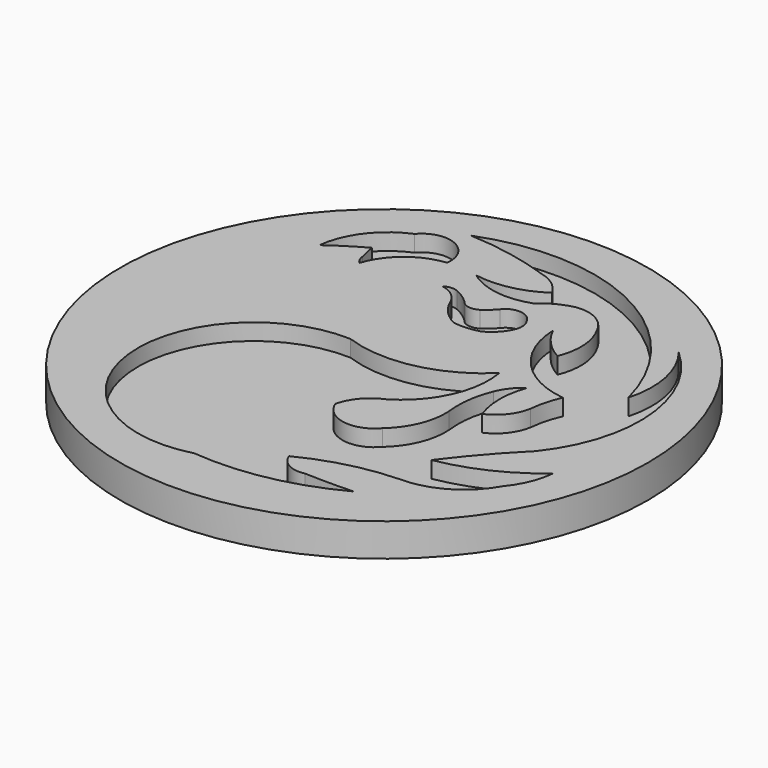
from build123d import *

# Parameters (mm, degrees)
F0_R     = 50.8
F1_DEPTH = 6.35
F3_DEPTH = 3.175


with BuildPart() as f1:
    # F0 (on Top) → F1 (new body)
    with BuildSketch(Plane.XY):
        Circle(F0_R)
    extrude(amount=F1_DEPTH)

    # F2 (on face) → F3 (cut)
    with BuildSketch(Plane.XY.offset(6.35)):
        with BuildLine():
            ThreePointArc((15.112324, 8.831488), (3.651467, 2.698075), (-9.320416, 3.53488))
            ThreePointArc((-9.320416, 3.53488), (-32.253054, -21.213472), (-4.365525, -40.204853))
            ThreePointArc((-4.365525, -40.204853), (9.25251, -39.514444), (22.098763, -34.942649))
            ThreePointArc((22.098763, -34.942649), (17.400158, -35.046174), (12.701553, -34.942649))
            ThreePointArc((12.701553, -34.942649), (9.453009, -34.523417), (7.319516, -32.038059))
            ThreePointArc((7.319516, -32.038059), (15.827852, -28.814343), (24.832496, -27.510311))
            ThreePointArc((24.832496, -27.510311), (32.746976, -25.459085), (38.501162, -19.650828))
            ThreePointArc((38.501162, -19.650828), (40.771781, -15.886564), (41.832902, -11.620486))
            ThreePointArc((41.832902, -11.620486), (33.877001, -16.787957), (24.832496, -19.650828))
            ThreePointArc((24.832496, -19.650828), (29.815505, -13.430648), (35.254855, -7.605316))
            ThreePointArc((35.254855, -7.605316), (41.278783, 12.303986), (31.977173, 30.909041))
            ThreePointArc((31.977173, 30.909041), (35.554887, 23.205066), (35.254855, 14.716176))
            ThreePointArc((35.254855, 14.716176), (15.477583, 39.467908), (-16.163122, 41.097168))
            ThreePointArc((-16.163122, 41.097168), (-7.968292, 40.127246), (0, 37.98195))
            ThreePointArc((0, 37.98195), (2.887171, 36.599375), (4.963089, 34.162607))
            ThreePointArc((4.963089, 34.162607), (-1.010732, 31.624663), (-7.500219, 31.505231))
            ThreePointArc((-7.500219, 31.505231), (-1.491468, 29.04792), (4.963089, 29.742295))
            ThreePointArc((4.963089, 29.742295), (7.619099, 31.6133), (10.671567, 32.725722))
            ThreePointArc((10.671567, 32.725722), (14.857029, 32.055581), (17.791109, 28.99644))
            ThreePointArc((17.791109, 28.99644), (19.347167, 23.888888), (18.469164, 18.622248))
            ThreePointArc((18.469164, 18.622248), (15.14181, 21.198982), (12.786984, 24.68691))
            ThreePointArc((12.786984, 24.68691), (17.163098, 13.855457), (27.56623, 8.540798))
            ThreePointArc((27.56623, 8.540798), (26.557747, 5.699635), (26.028505, 2.731615))
            ThreePointArc((26.028505, 2.731615), (24.468311, -0.799827), (21.415329, -3.162999))
            ThreePointArc((21.415329, -3.162999), (20.44222, 2.261754), (21.415329, 7.686506))
            ThreePointArc((21.415329, 7.686506), (19.491688, 5.874092), (18.169021, 3.585906))
            ThreePointArc((18.169021, 3.585906), (16.975731, -0.906667), (16.973011, -5.555016))
            ThreePointArc((16.973011, -5.555016), (16.032075, -11.360599), (12.616124, -16.148232))
            ThreePointArc((12.616124, -16.148232), (6.875784, -18.260537), (2.127092, -14.405247))
            ThreePointArc((2.127092, -14.405247), (3.95514, -10.785374), (7.252841, -8.425204))
            ThreePointArc((7.252841, -8.425204), (13.847913, -1.010771), (15.112324, 8.831488))
        make_face()
        with BuildLine():
            ThreePointArc((-23.696838, 23.682131), (-19.798362, 29.346782), (-13.441595, 31.969357))
            ThreePointArc((-13.441595, 31.969357), (-16.672015, 37.73461), (-23.107406, 36.231447))
            ThreePointArc((-23.107406, 36.231447), (-29.15748, 31.539036), (-32.012127, 24.434594))
            ThreePointArc((-32.012127, 24.434594), (-28.736741, 26.680977), (-25.31456, 28.696684))
            ThreePointArc((-25.31456, 28.696684), (-24.969334, 27.114262), (-24.609111, 25.535187))
            ThreePointArc((-24.609111, 25.535187), (-24.317241, 24.527789), (-23.696838, 23.682131))
        make_face()
        with BuildLine():
            ThreePointArc((-9.197756, 25.535187), (-6.724581, 24.427669), (-5.085402, 22.269826))
            ThreePointArc((-5.085402, 22.269826), (-3.220597, 19.405613), (-0.489241, 17.351128))
            ThreePointArc((-0.489241, 17.351128), (2.029713, 17.241099), (4.510092, 17.693825))
            ThreePointArc((4.510092, 17.693825), (6.713953, 19.342602), (8.158797, 21.685228))
            ThreePointArc((8.158797, 21.685228), (8.296615, 23.240133), (7.715309, 24.688859))
            ThreePointArc((7.715309, 24.688859), (5.068899, 26.392475), (2.212011, 25.071872))
            ThreePointArc((2.212011, 25.071872), (1.166697, 24.006752), (0, 23.076171))
            ThreePointArc((0, 23.076171), (-1.454137, 22.680928), (-2.908273, 23.076171))
            ThreePointArc((-2.908273, 23.076171), (-4.628321, 24.658533), (-6.657773, 25.817741))
            ThreePointArc((-6.657773, 25.817741), (-7.961822, 25.982624), (-9.197756, 25.535187))
        make_face()
    extrude(amount=-F3_DEPTH, mode=Mode.SUBTRACT)


solid = f1.part
